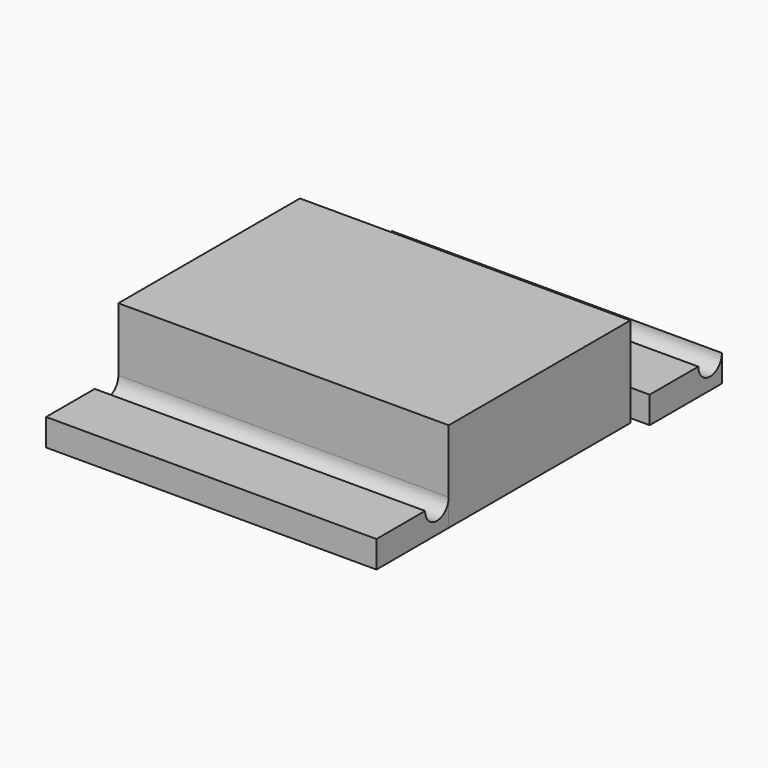
from build123d import *

# Parameters (mm, degrees)
F0_W     = 92.892788
F0_H     = 63.802682
F1_DEPTH = 25.4
F2_W     = 92.892788
F2_H     = 7.566451
F3_DEPTH = 25.4
F5_DEPTH = 155.194


with BuildPart() as f1:
    # F0 (on Top) → F1 (new body)
    with BuildSketch(Plane.XY):
        with Locations((-46.446394, -31.901341)):
            Rectangle(F0_W, F0_H)
    extrude(amount=F1_DEPTH)


with BuildPart() as f3:
    # F2 (on face) → F3 (new body)
    with BuildSketch(Plane.XZ.offset(63.802682)):
        with Locations((-46.446394, 3.783225)):
            Rectangle(F2_W, F2_H)
    extrude(amount=F3_DEPTH)

    # F4 (on face) → F5 (cut)
    with BuildSketch(Plane.YZ):
        with BuildLine():
            Line((-63.802682, 7.566451), (-72.102487, 7.566451))
            ThreePointArc((-72.102487, 7.566451), (-67.952584, 3.416548), (-63.802682, 7.566451))
        make_face()
    extrude(amount=-F5_DEPTH, mode=Mode.SUBTRACT)


with BuildPart() as f6_1:
    # F6: copy of F3
    add(f3.part.moved(Location((3.048, 92.202, -0.762))))


solid = Compound([f1.part, f3.part, f6_1.part])
